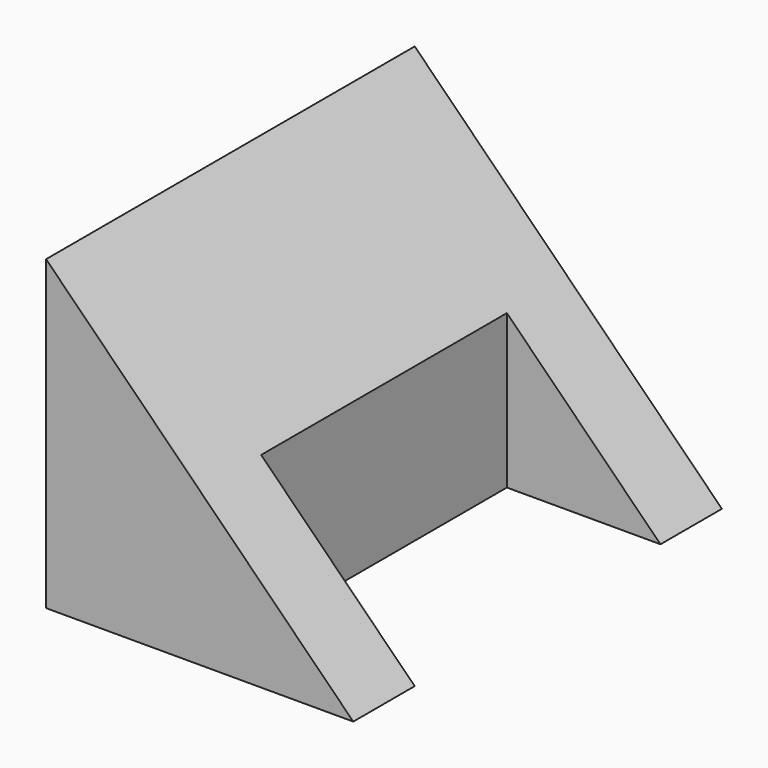
from build123d import *

# Parameters (mm, degrees)
F1_DEPTH = 19.05
F2_W     = 12.7
F2_H     = 25.4
F3_DEPTH = 25.4


with BuildPart() as f1:
    # F0 (on Front) → F1 (new body, symmetric)
    with BuildSketch(Plane.XZ):
        Polygon((0, 25.4), (0, 0), (25.4, 0), align=None)
    extrude(amount=F1_DEPTH, both=True)

    # F2 (on Top) → F3 (cut)
    with BuildSketch(Plane.XY):
        with Locations((19.05, 0)):
            Rectangle(F2_W, F2_H)
    extrude(amount=F3_DEPTH, mode=Mode.SUBTRACT)


solid = f1.part
